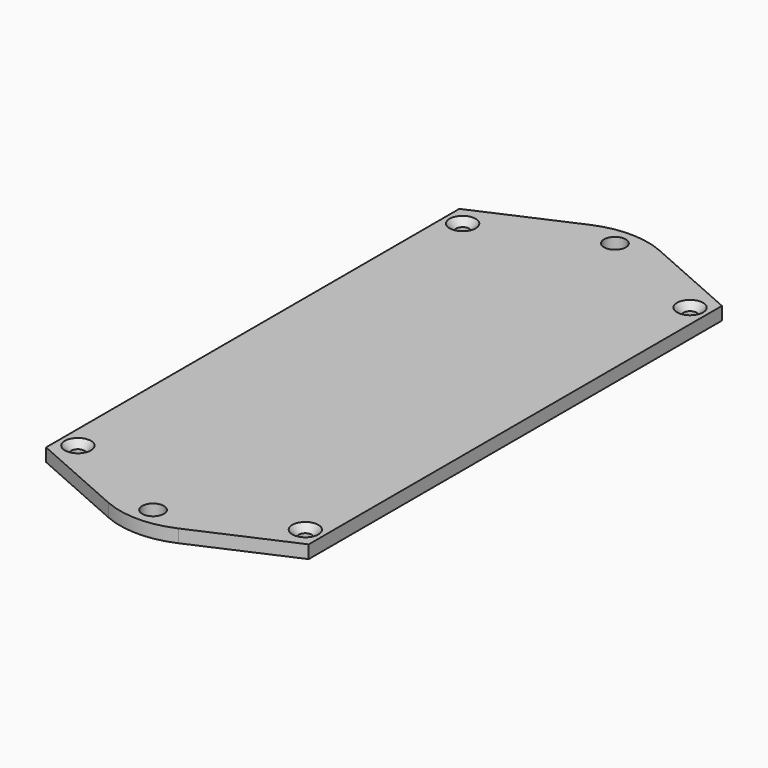
from build123d import *

# Parameters (mm, degrees)
F0_W     = 60.5
F0_H     = 119
F0_R     = 3
F0_R_2   = 2.5
F0_R_3   = 1.5
F1_DEPTH = 3
F2_SIZE  = 1.5


with BuildPart() as f1:
    # F0 (on Top) → F1 (new body)
    with BuildSketch(Plane.XY):
        Rectangle(F0_W, F0_H)
        with Locations((-26.2, -55.4)):
            Circle(F0_R, mode=Mode.SUBTRACT)
        with Locations((26.2, -55.4)):
            Circle(F0_R, mode=Mode.SUBTRACT)
        with Locations((-26.2, 55.4)):
            Circle(F0_R, mode=Mode.SUBTRACT)
        with Locations((26.2, 55.4)):
            Circle(F0_R, mode=Mode.SUBTRACT)
        with BuildLine():
            Line((-8.082679, 69.293996), (-30.25, 59.5))
            Line((-30.25, 59.5), (30.25, 59.5))
            Line((30.25, 59.5), (8.082679, 69.293996))
            ThreePointArc((8.082679, 69.293996), (0, 71), (-8.082679, 69.293996))
        make_face()
        with Locations((0, 66.5)):
            Circle(F0_R_2, mode=Mode.SUBTRACT)
        with BuildLine():
            Line((30.25, -59.5), (-30.25, -59.5))
            Line((-30.25, -59.5), (-8.082679, -69.293996))
            ThreePointArc((-8.082679, -69.293996), (0, -71), (8.082679, -69.293996))
            Line((8.082679, -69.293996), (30.25, -59.5))
        make_face()
        with Locations((0, -66.5)):
            Circle(F0_R_2, mode=Mode.SUBTRACT)
        with Locations((-26.2, 55.4)):
            Circle(F0_R)
        with Locations((-26.2, 55.4)):
            Circle(F0_R_3, mode=Mode.SUBTRACT)
        with Locations((26.2, 55.4)):
            Circle(F0_R)
        with Locations((26.2, 55.4)):
            Circle(F0_R_3, mode=Mode.SUBTRACT)
        with Locations((-26.2, -55.4)):
            Circle(F0_R)
        with Locations((-26.2, -55.4)):
            Circle(F0_R_3, mode=Mode.SUBTRACT)
        with Locations((26.2, -55.4)):
            Circle(F0_R)
        with Locations((26.2, -55.4)):
            Circle(F0_R_3, mode=Mode.SUBTRACT)
    extrude(amount=F1_DEPTH)

    # F2
    f2_edges = [f1.edges().sort_by_distance(p)[0] for p in [
        (-27.7, 55.4, 3),
        (24.7, 55.4, 3),
        (24.7, -55.4, 3),
        (-27.7, -55.4, 3),
    ]]
    chamfer(f2_edges, length=F2_SIZE)


solid = f1.part
